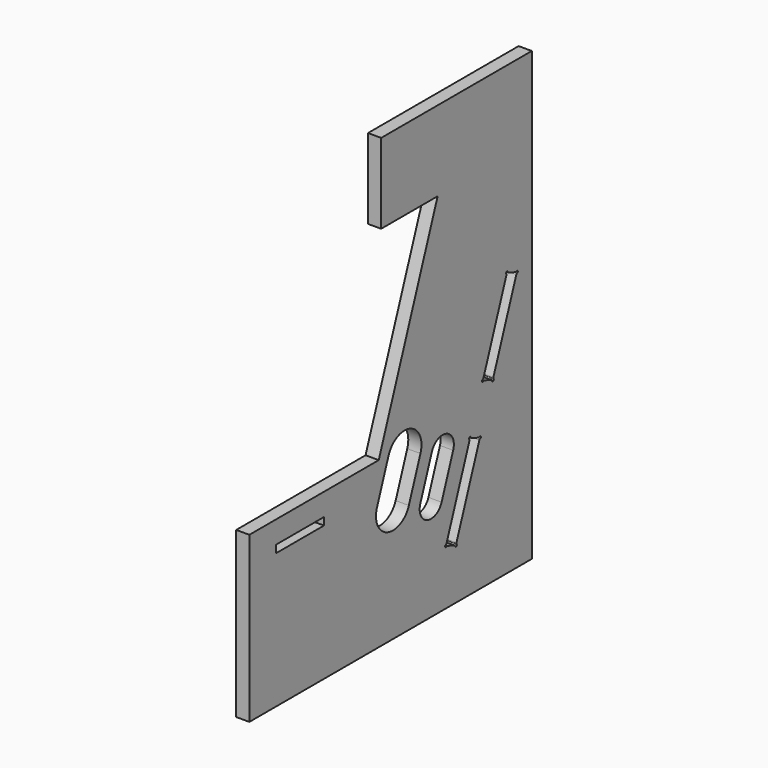
from build123d import *

# Parameters (mm, degrees)
PAD001_DEPTH    = 2.8
POCKET005_DEPTH = 2.801
SKETCH021_W     = 12.7
SKETCH021_H     = 1.6
POCKET010_DEPTH = 2.801


with BuildPart() as part:
    # Sketch001 (on Face18 of ShapeBinder) → Pad001 (new body)
    with BuildSketch(Plane.YZ.offset(35)):
        Polygon((-22.588718, 60.327675), (17.411282, 60.327675), (17.411282, -34.672325), (-57.588718, -34.672325), (-57.588718, 0.327675), (-23.239438, 0.327675), (-7.588718, 43.327675), (-22.588718, 43.327675), align=None)
        with BuildLine():
            ThreePointArc((-12.161797, -2.94822), (-14.851323, 2.819487), (-20.61903, 0.129961))
            Line((-20.61903, 0.129961), (-23.697212, -8.327272))
            ThreePointArc((-23.697212, -8.327272), (-21.007685, -14.09498), (-15.239978, -11.405454))
            Line((-15.239978, -11.405454), (-12.161797, -2.94822))
        make_face(mode=Mode.SUBTRACT)
        with BuildLine():
            ThreePointArc((-3.468033, -5.876244), (-5.261051, -2.031105), (-9.106189, -3.824123))
            Line((-9.106189, -3.824123), (-12.18437, -12.281356))
            ThreePointArc((-12.18437, -12.281356), (-10.391353, -16.126495), (-6.546214, -14.333477))
            Line((-6.546214, -14.333477), (-3.468033, -5.876244))
        make_face(mode=Mode.SUBTRACT)
        Polygon((10.819102, 21.538585), (13.450241, 20.580929), (7.057884, 3.018073), (4.426745, 3.97573), align=None, mode=Mode.SUBTRACT)
        Polygon((1.006544, -5.421196), (3.637683, -6.378853), (-2.754673, -23.941708), (-5.385813, -22.984051), align=None, mode=Mode.SUBTRACT)
    extrude(amount=PAD001_DEPTH)

    # Sketch013 (on Face26 of Pad001) → Pocket005 (cut, through all)
    with BuildSketch(Plane.YZ.offset(37.8)):
        with BuildLine():
            ThreePointArc((1.252746, -5.377784), (0.900889, -5.194619), (0.815033, -5.581893))
            ThreePointArc((0.858445, -5.828095), (0.869723, -5.699178), (0.815033, -5.581893))
            Line((0.858445, -5.828095), (1.413442, -5.569295))
            ThreePointArc((1.252746, -5.377784), (1.307436, -5.495069), (1.413442, -5.569295))
        make_face()
        with BuildLine():
            ThreePointArc((3.681095, -6.625055), (3.86426, -6.273198), (3.476986, -6.187342))
            ThreePointArc((3.230784, -6.230754), (3.359701, -6.242032), (3.476986, -6.187342))
            Line((3.489584, -6.785752), (3.230784, -6.230754))
            ThreePointArc((3.681095, -6.625055), (3.56381, -6.679746), (3.489584, -6.785752))
        make_face()
        with BuildLine():
            ThreePointArc((-5.429225, -22.737849), (-5.61239, -23.089706), (-5.225116, -23.175563))
            ThreePointArc((-4.978914, -23.13215), (-5.107831, -23.120872), (-5.225116, -23.175563))
            Line((-5.237714, -22.577153), (-4.978914, -23.13215))
            ThreePointArc((-5.429225, -22.737849), (-5.31194, -22.683159), (-5.237714, -22.577153))
        make_face()
        with BuildLine():
            ThreePointArc((-3.000875, -23.98512), (-2.649019, -24.168285), (-2.563162, -23.781011))
            ThreePointArc((-2.606574, -23.534809), (-2.617853, -23.663726), (-2.563162, -23.781011))
            Line((-2.606574, -23.534809), (-3.161572, -23.793609))
            ThreePointArc((-3.000875, -23.98512), (-3.055566, -23.867835), (-3.161572, -23.793609))
        make_face()
        with BuildLine():
            ThreePointArc((11.065304, 21.581997), (10.713447, 21.765162), (10.62759, 21.377888))
            ThreePointArc((10.671003, 21.131686), (10.682281, 21.260603), (10.62759, 21.377888))
            Line((10.671003, 21.131686), (11.226, 21.390486))
            ThreePointArc((11.065304, 21.581997), (11.119994, 21.464712), (11.226, 21.390486))
        make_face()
        with BuildLine():
            ThreePointArc((13.493653, 20.334727), (13.676818, 20.686583), (13.289544, 20.77244))
            ThreePointArc((13.043342, 20.729028), (13.172259, 20.717749), (13.289544, 20.77244))
            Line((13.302142, 20.17403), (13.043342, 20.729028))
            ThreePointArc((13.493653, 20.334727), (13.376368, 20.280036), (13.302142, 20.17403))
        make_face()
        with BuildLine():
            ThreePointArc((4.383333, 4.221932), (4.200168, 3.870075), (4.587442, 3.784219))
            ThreePointArc((4.833644, 3.827631), (4.704727, 3.83891), (4.587442, 3.784219))
            Line((4.574844, 4.382629), (4.833644, 3.827631))
            ThreePointArc((4.383333, 4.221932), (4.500618, 4.276623), (4.574844, 4.382629))
        make_face()
        with BuildLine():
            ThreePointArc((6.811682, 2.974661), (7.163539, 2.791497), (7.249396, 3.17877))
            ThreePointArc((7.205983, 3.424972), (7.194705, 3.296055), (7.249396, 3.17877))
            Line((7.205983, 3.424972), (6.650986, 3.166173))
            ThreePointArc((6.811682, 2.974661), (6.756992, 3.091946), (6.650986, 3.166173))
        make_face()
    extrude(amount=-POCKET005_DEPTH, mode=Mode.SUBTRACT)

    # Sketch021 (on Face5 of Pocket005) → Pocket010 (cut, through all)
    with BuildSketch(Plane.YZ.offset(37.8)):
        with Locations((-44.116, -5.2)):
            Rectangle(SKETCH021_W, SKETCH021_H)
    extrude(amount=-POCKET010_DEPTH, mode=Mode.SUBTRACT)


solid = part.part
